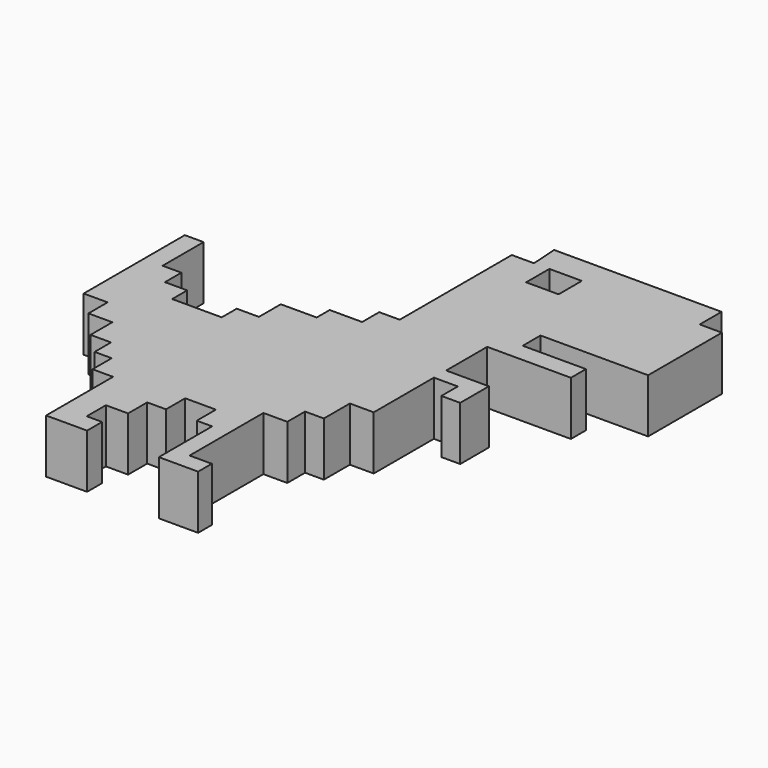
from build123d import *

# Parameters (mm, degrees)
F0_W     = 3.824378
F0_H     = 3.421813
F1_DEPTH = 6.35


with BuildPart() as f1:
    # F0 (on Top) → F1 (new body)
    with BuildSketch(Plane.XY):
        Polygon((0, 22.241773), (-19.725736, 22.241773), (-19.524453, 19.021247), (-22.141133, 19.021247), (-22.141133, 2.516038), (-24.556529, 2.516038), (-24.556529, 0), (-28.380906, 0), (-28.380906, -1.912189), (-32.60785, -1.912189), (-32.60785, -5.132717), (-35.224527, -5.132717), (-35.224527, -7.34683), (-41.061737, -7.34683), (-41.061737, -5.132717), (-43.678414, -5.132717), (-43.678414, -2.717321), (-45.892529, -2.717321), (-45.892529, 3.32117), (-48.106641, 3.32117), (-48.106641, -11.573775), (-45.288678, -11.573775), (-45.288678, -14.391736), (-42.470716, -14.391736), (-42.470716, -17.612264), (-40.05532, -17.612264), (-40.05532, -20.027662), (-38.042489, -20.027662), (-38.042489, -22.845622), (-35.627093, -22.845622), (-35.627093, -32.708492), (-30.796302, -32.708492), (-30.796302, -30.494377), (-32.60785, -30.494377), (-32.60785, -27.676415), (-29.99117, -27.676415), (-29.99117, -24.858454), (-27.777057, -24.858454), (-27.777057, -22.04049), (-24.153963, -22.04049), (-24.153963, -24.858454), (-22.342416, -24.858454), (-22.342416, -32.708492), (-17.712906, -32.708492), (-17.712906, -30.69566), (-20.329585, -30.69566), (-20.329585, -19.826377), (-17.511621, -19.826377), (-17.511621, -17.209699), (-15.29751, -17.209699), (-15.29751, -13.38532), (-12.479547, -13.38532), (-12.479547, -4.528868), (-9.661585, -4.528868), (-9.661585, -6.944264), (-7.447471, -6.944264), (-7.447471, -2.717321), (-12.479547, -2.717321), (-12.479547, 3.32117), (-2.616679, 3.32117), (-2.616679, 5.535283), (-10.064151, 5.535283), (-10.064151, 8.151962), (2.616679, 8.151962), (2.616679, 19.021247), (0, 19.021247), align=None)
        with Locations((-15.800717, 17.31034)):
            Rectangle(F0_W, F0_H, mode=Mode.SUBTRACT)
    extrude(amount=F1_DEPTH)


solid = f1.part
